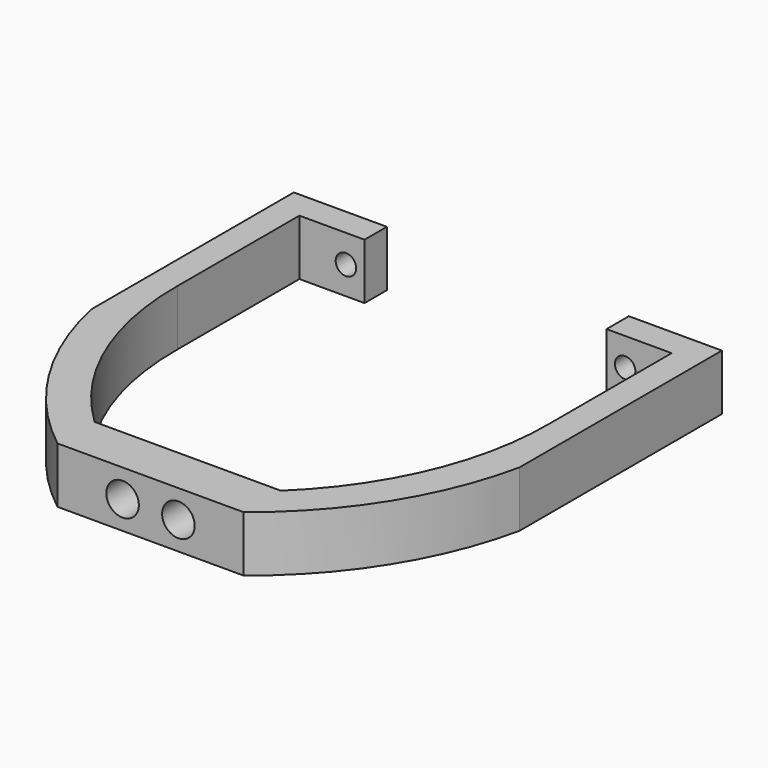
from build123d import *

# Parameters (mm, degrees)
CYLINDER001_R     = 1.75
CYLINDER001_DEPTH = 10
CYLINDER002_R     = 1.1
CYLINDER002_DEPTH = 10
CYLINDER003_R     = 1.1
CYLINDER003_DEPTH = 10
CYLINDER_R        = 1.75
CYLINDER_DEPTH    = 10
EXTRUDE_DEPTH     = 6


with BuildPart() as cylinder001:
    # Cylinder001 → Cylinder001 (new body)
    with BuildSketch(Plane(origin=(-3, -7, 3), x_dir=(1, 0, 0), z_dir=(0, 1, 0))):
        Circle(CYLINDER001_R)
    extrude(amount=CYLINDER001_DEPTH)


with BuildPart() as cylinder002:
    # Cylinder002 → Cylinder002 (new body)
    with BuildSketch(Plane(origin=(15, 43, 3), x_dir=(1, 0, 0), z_dir=(0, -1, 0))):
        Circle(CYLINDER002_R)
    extrude(amount=CYLINDER002_DEPTH)


with BuildPart() as cylinder003:
    # Cylinder003 → Cylinder003 (new body)
    with BuildSketch(Plane(origin=(-15, 43, 3), x_dir=(1, 0, 0), z_dir=(0, -1, 0))):
        Circle(CYLINDER003_R)
    extrude(amount=CYLINDER003_DEPTH)


with BuildPart() as fusion:
    # Cylinder → Cylinder (new body)
    with BuildSketch(Plane(origin=(3, -7, 3), x_dir=(1, 0, 0), z_dir=(0, 1, 0))):
        Circle(CYLINDER_R)
    extrude(amount=CYLINDER_DEPTH)

    # Fusion: union Cylinder001, Cylinder002, Cylinder003
    add(cylinder001.part)
    add(cylinder002.part)
    add(cylinder003.part)


with BuildPart() as cut:
    # Sketch → Extrude (new body)
    with BuildSketch(Plane.XY):
        with BuildLine():
            Line((-13, 40), (-13, 43))
            Line((-13, 43), (-23, 43))
            Line((-23, 43), (-23, 15.823169))
            ThreePointArc((-23, 15.823169), (-18.331197, 4.268359), (-10, -5))
            Line((-10, -5), (10, -5))
            ThreePointArc((10, -5), (18.331197, 4.268359), (23, 15.823169))
            Line((23, 43), (23, 15.823169))
            Line((13, 43), (23, 43))
            Line((13, 40), (13, 43))
            Line((13, 40), (20, 40))
            Line((20, 40), (20, 23.620741))
            ThreePointArc((10, 0), (17.454834, 10.7711), (20, 23.620741))
            Line((-10, 0), (10, 0))
            ThreePointArc((-20, 23.620741), (-17.454834, 10.7711), (-10, 0))
            Line((-20, 40), (-20, 23.620741))
            Line((-13, 40), (-20, 40))
        make_face()
    extrude(amount=EXTRUDE_DEPTH)

    # Cut: cut Fusion
    add(fusion.part, mode=Mode.SUBTRACT)


solid = cut.part
